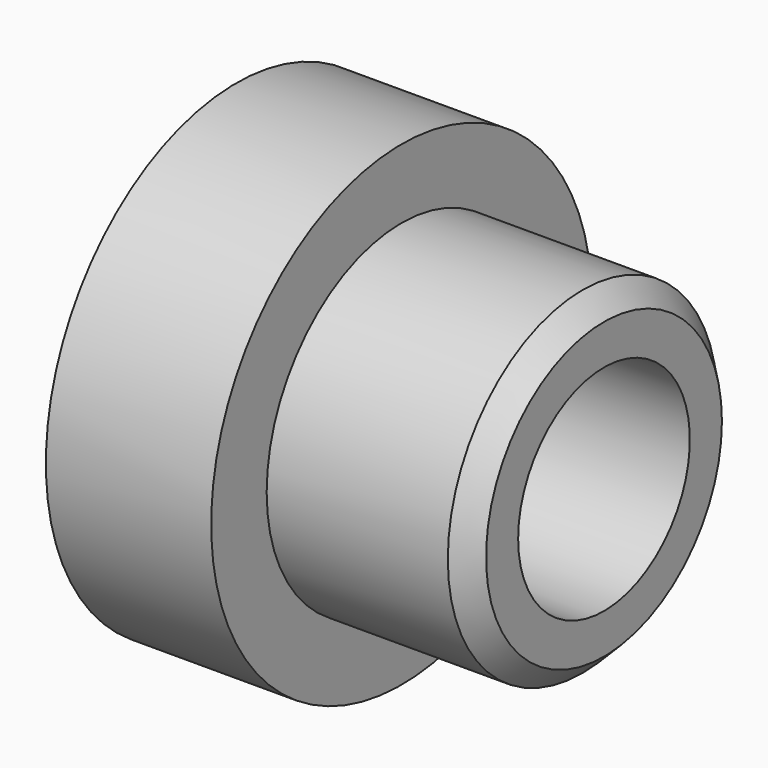
from build123d import *

# Parameters (mm, degrees)
F0_R     = 11.2014
F1_DEPTH = 7.78
F2_R     = 7.9375
F3_DEPTH = 9.525
F5_D     = 10.1
F6_SIZE2 = 1
F6_SIZE  = 1


with BuildPart() as f1:
    # F0 (on Right) → F1 (new body)
    with BuildSketch(Plane.YZ):
        Circle(F0_R)
    extrude(amount=F1_DEPTH)

    # F2 (on face) → F3 (join)
    with BuildSketch(Plane.YZ.offset(7.78)):
        Circle(F2_R)
    extrude(amount=F3_DEPTH)

    # F5 (through all)
    with Locations(Plane.YZ.offset(17.305)):
        with Locations((0, 0)):
            Hole(F5_D / 2)

    # F6
    f6_edges = [f1.edges().sort_by_distance(p)[0] for p in [
        (17.305, -7.9375, 0),
    ]]
    chamfer(f6_edges, length=F6_SIZE, length2=F6_SIZE2)


solid = f1.part
